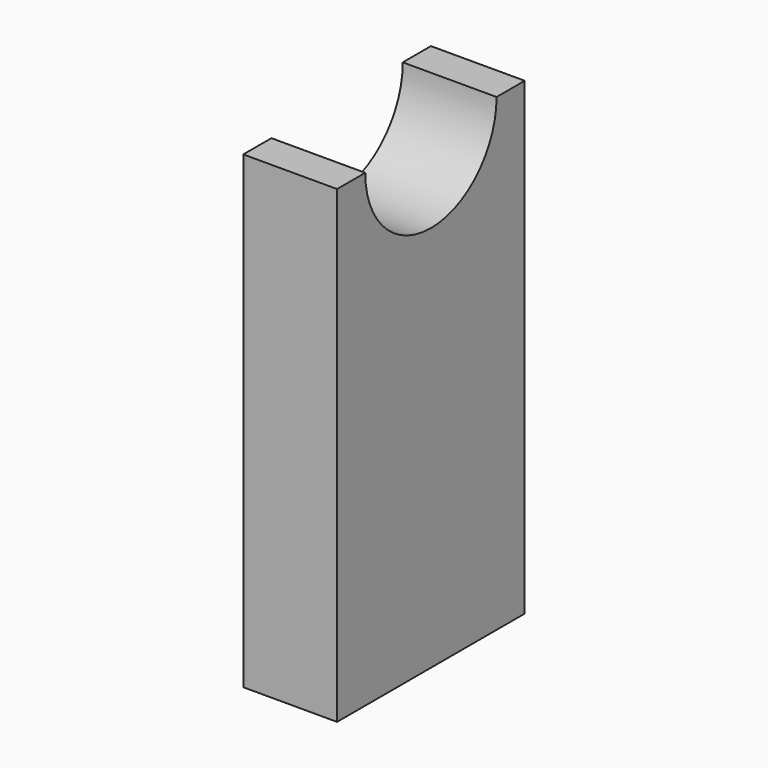
from build123d import *

# Parameters (mm, degrees)
F1_DEPTH = 20
F3_D     = 5
F3_DEPTH = 10
F3_TIP   = 1.5021515476
F4_D     = 5
F4_DEPTH = 10
F4_TIP   = 1.5021515476


with BuildPart() as f1:
    # F0 (on Right) → F1 (new body)
    with BuildSketch(Plane.YZ):
        with BuildLine():
            Line((-56.3612431288, 114.1744827852), (-56.3612431288, 14.1744827852))
            Line((-56.3612431288, 14.1744827852), (-6.3612431288, 14.1744827852))
            Line((-6.3612431288, 14.1744827852), (-6.3612431288, 114.1744827852))
            Line((-6.3612431288, 114.1744827852), (-13.8612431288, 114.1744827852))
            ThreePointArc((-13.8612431288, 114.1744827852), (-31.3612431288, 96.6744827852), (-48.8612431288, 114.1744827852))
            Line((-48.8612431288, 114.1744827852), (-56.3612431288, 114.1744827852))
        make_face()
    extrude(amount=F1_DEPTH)

    # F3
    with Locations(Plane(origin=(0, 0, 14.1744827852), x_dir=(1, 0, 0), z_dir=(0, 0, -1))):
        with Locations((10, 43.8612431288)):
            Hole(F3_D / 2, depth=F3_DEPTH)
            with Locations((0, 0, -(F3_DEPTH + F3_TIP / 2))):  # 118° drill point
                Cone(0, F3_D / 2, F3_TIP, mode=Mode.SUBTRACT)

    # F4
    with Locations(Plane(origin=(0, 0, 14.1744827852), x_dir=(1, 0, 0), z_dir=(0, 0, -1))):
        with Locations((10, 18.8612431288)):
            Hole(F4_D / 2, depth=F4_DEPTH)
            with Locations((0, 0, -(F4_DEPTH + F4_TIP / 2))):  # 118° drill point
                Cone(0, F4_D / 2, F4_TIP, mode=Mode.SUBTRACT)


solid = f1.part
